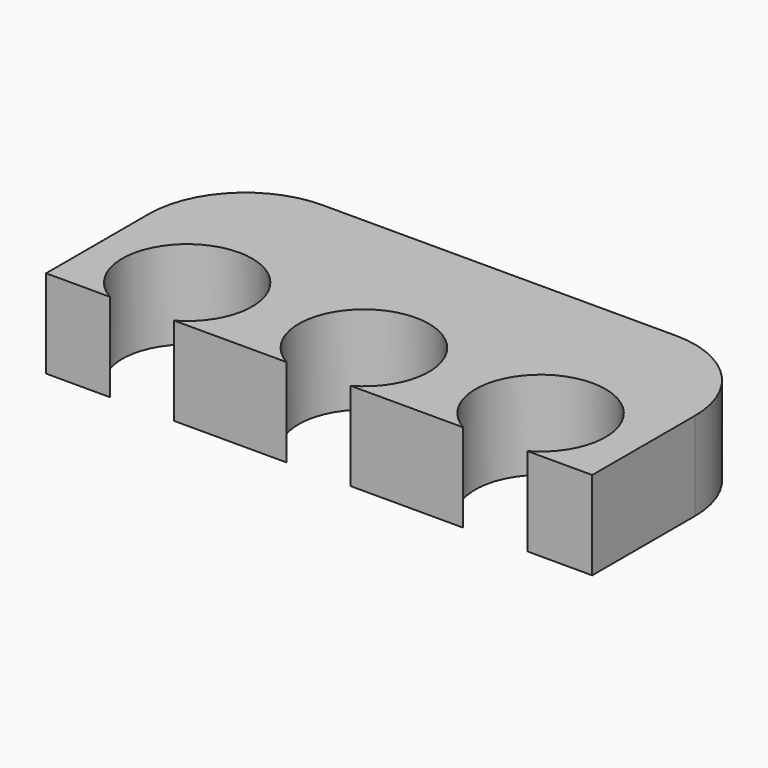
from build123d import *

# Parameters (mm, degrees)
F0_W     = 17
F0_H     = 7
F1_DEPTH = 2.75
F3_DEPTH = 25
F4_R     = 3


with BuildPart() as f1:
    # F0 (on Top) → F1 (new body)
    with BuildSketch(Plane.XY):
        with Locations((-8.5, 3.5)):
            Rectangle(F0_W, F0_H)
    extrude(amount=F1_DEPTH)

    # F2 (on face) → F3 (cut)
    with BuildSketch(Plane.XY.offset(2.75)):
        with BuildLine():
            ThreePointArc((-7.516647, 0), (-8.516647, 3.787575), (-9.516647, 0))
            Line((-9.516647, 0), (-7.516647, 0))
        make_face()
        with BuildLine():
            ThreePointArc((-2.016647, 0), (-3.016647, 3.784253), (-4.016647, 0))
            Line((-4.016647, 0), (-2.016647, 0))
        make_face()
        with BuildLine():
            Line((-15.016647, 0), (-13.016647, 0))
            ThreePointArc((-13.016647, 0), (-14.016647, 3.784253), (-15.016647, 0))
        make_face()
    extrude(amount=-F3_DEPTH, mode=Mode.SUBTRACT)

    # F4
    f4_edges = [f1.edges().sort_by_distance(p)[0] for p in [
        (-17, 7, 1.375),
        (0, 7, 1.375),
    ]]
    fillet(f4_edges, radius=F4_R)


solid = f1.part
